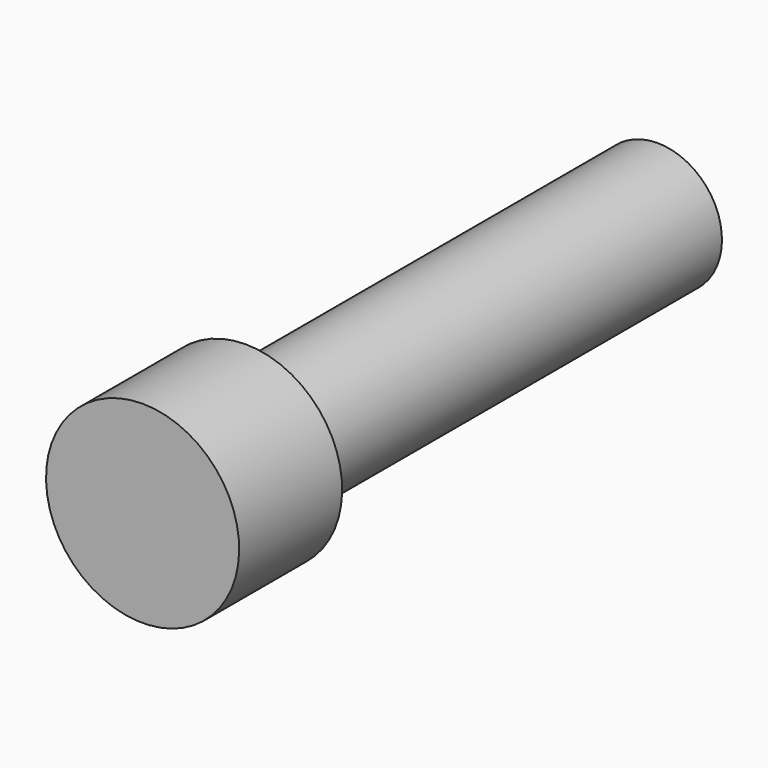
from build123d import *


with BuildPart() as part:
    # Sketch → Revolution (revolve)
    with BuildSketch(Plane.YZ):
        Polygon((-2, 0), (-2, 1.5), (0, 1.5), (0, 1), (8, 1), (8, 0), align=None)
    revolve(axis=Axis((0, 0, 0), (0, 1, 0)))


solid = part.part
